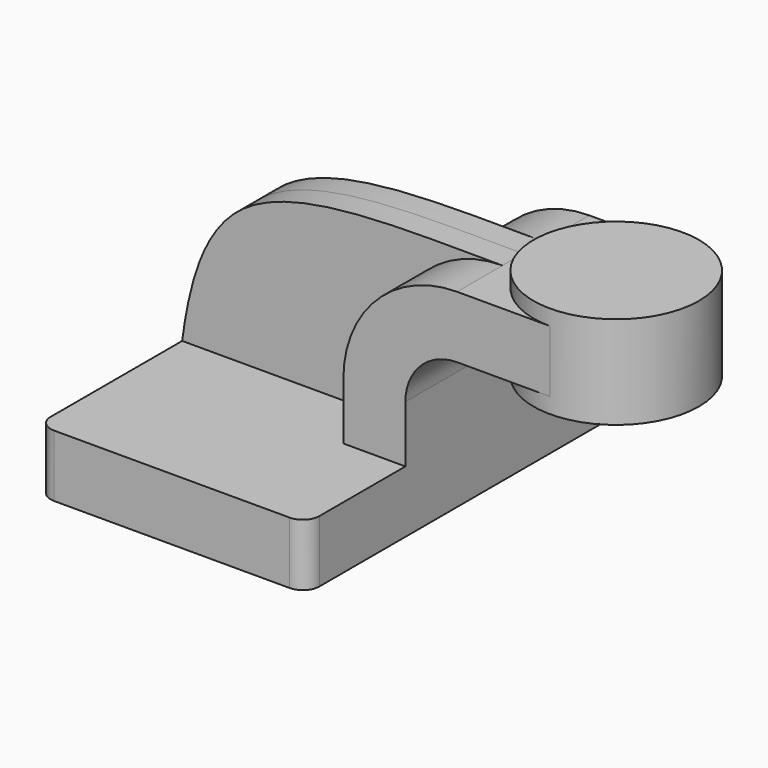
from build123d import *

# Parameters (mm, degrees)
F1_DEPTH = 63.5
F0_W     = 25.4
F0_H     = 19.05
F2_DEPTH = 25.4
F4_DEPTH = 7.9375
F5_R     = 5.08


with BuildPart() as f1:
    # F0 (on Front) → F1 (new body, symmetric)
    with BuildSketch(Plane.XZ):
        Polygon((41.275, -9.525), (41.275, 9.525), (22.225, 9.525), (-41.275, 9.525), (-41.275, -9.525), align=None)
    extrude(amount=F1_DEPTH, both=True)

    # F0 (on Front) → F2 (join, symmetric)
    with BuildSketch(Plane.XZ):
        with BuildLine():
            Line((22.225, 9.525), (41.275, 9.525))
            Line((41.275, 9.525), (41.275, 27.0002))
            ThreePointArc((41.275, 27.0002), (45.9246798487, 38.2255201513), (57.15, 42.8752))
            Line((57.15, 42.8752), (60.325, 42.8752))
            Line((60.325, 42.8752), (60.325, 61.9252))
            Line((60.325, 61.9252), (57.15, 61.9252))
            ThreePointArc((57.15, 61.9252), (32.4542956671, 51.6959043329), (22.225, 27.0002))
            Line((22.225, 27.0002), (22.225, 9.525))
        make_face()
        with Locations((73.025, 52.4002)):
            Rectangle(F0_W, F0_H)
    extrude(amount=F2_DEPTH, both=True)

    # F0 (on Front) → F3 (revolve)
    with BuildSketch(Plane.XZ):
        Polygon((85.725, 61.9252), (85.725, 42.8752), (85.725, 38.1), (111.125, 38.1), (111.125, 66.675), (85.725, 66.675), align=None)
    revolve(axis=Axis((85.725, 0, 52.3875), (0, 0, 1)))

    # F0 (on Front) → F4 (join, symmetric)
    with BuildSketch(Plane.XZ):
        with BuildLine():
            Line((-41.275, 9.525), (22.225, 9.525))
            Line((22.225, 9.525), (22.225, 27.0002))
            ThreePointArc((22.225, 27.0002), (32.4542956671, 51.6959043329), (57.15, 61.9252))
            add(Edge.make_bspline(
                [(57.15, 61.9252), (24.6527968383, 61.9252), (-30.2506246056, 64.332675823), (-39.2470384075, 24.7092637795), (-41.275, 9.525)],
                knots=[0, 0, 0, 0, 0.5726218411, 1, 1, 1, 1], degree=3))
        make_face()
    extrude(amount=F4_DEPTH, both=True)

    # F5
    f5_edges = [f1.edges().sort_by_distance(p)[0] for p in [
        (-41.275, -63.5, 0),
        (41.275, -63.5, 0),
        (41.275, 63.5, 0),
        (-41.275, 63.5, 0),
    ]]
    fillet(f5_edges, radius=F5_R)


solid = f1.part
